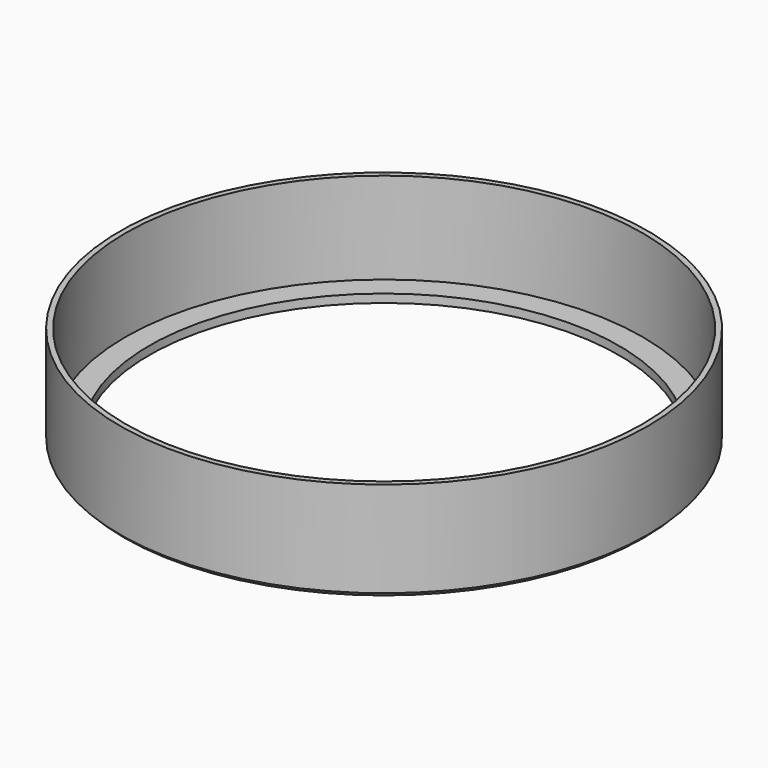
from build123d import *

# Parameters (mm, degrees)
F0_R     = 63.5
F0_R_2   = 62.2
F1_DEPTH = 22
F2_R     = 63.5
F2_R_2   = 56.5
F3_DEPTH = 2
F4_SIZE  = 1


with BuildPart() as f1:
    # F0 (on Top) → F1 (new body)
    with BuildSketch(Plane.XY):
        Circle(F0_R)
        Circle(F0_R_2, mode=Mode.SUBTRACT)
    extrude(amount=F1_DEPTH)

    # F2 (on Top) → F3 (join)
    with BuildSketch(Plane.XY):
        Circle(F2_R)
        Circle(F2_R_2, mode=Mode.SUBTRACT)
    extrude(amount=-F3_DEPTH)

    # F4
    f4_edges = [f1.edges().sort_by_distance(p)[0] for p in [
        (-63.5, 0, -2),
    ]]
    chamfer(f4_edges, length=F4_SIZE)


solid = f1.part
